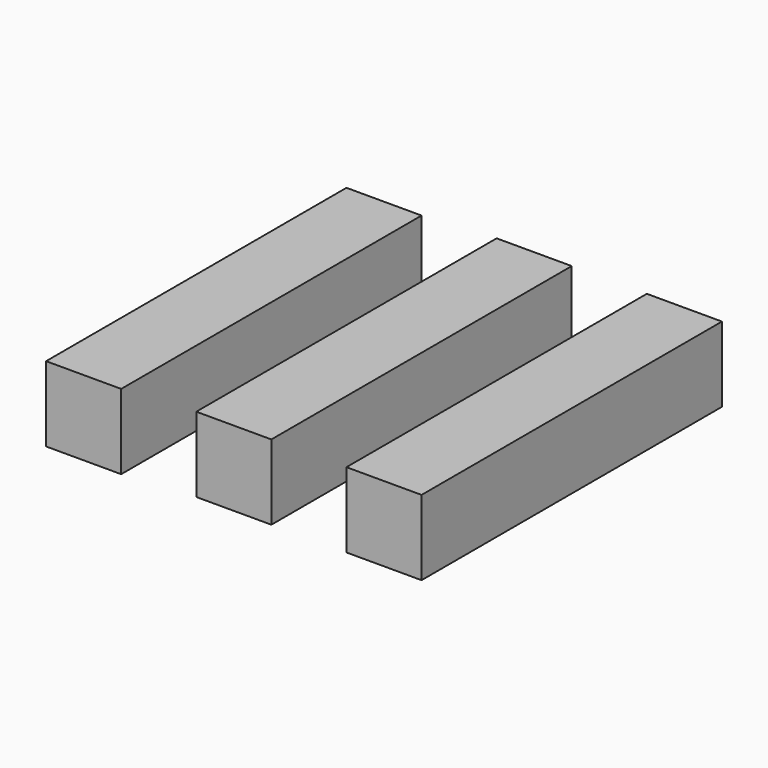
from build123d import *

# Parameters (mm, degrees)
F1_DEPTH = 63.5
F2_DEPTH = 63.5
F3_DEPTH = 63.5


with BuildPart() as f1:
    # F0 (on Front) → F1 (new body, symmetric)
    with BuildSketch(Plane.XZ):
        Polygon((-38.1, -14.174839), (-38.1, 0), (-38.1, 11.225161), (-63.5, 11.225161), (-63.5, -14.174839), align=None)
    extrude(amount=F1_DEPTH, both=True)


with BuildPart() as f2:
    # F0 (on Front) → F2 (new body, symmetric)
    with BuildSketch(Plane.XZ):
        Polygon((12.7, 0), (12.7, 12.7), (-12.7, 12.7), (-12.7, 0), (0, 0), align=None)
        Polygon((12.7, -12.7), (12.7, 0), (0, 0), (-12.7, 0), (-12.7, -12.7), align=None)
    extrude(amount=F2_DEPTH, both=True)


with BuildPart() as f3:
    # F0 (on Front) → F3 (new body, symmetric)
    with BuildSketch(Plane.XZ):
        Polygon((38.1, 12.7), (38.1, 0), (38.1, -12.7), (63.5, -12.7), (63.5, 12.7), align=None)
    extrude(amount=F3_DEPTH, both=True)


solid = Compound([f1.part, f2.part, f3.part])
